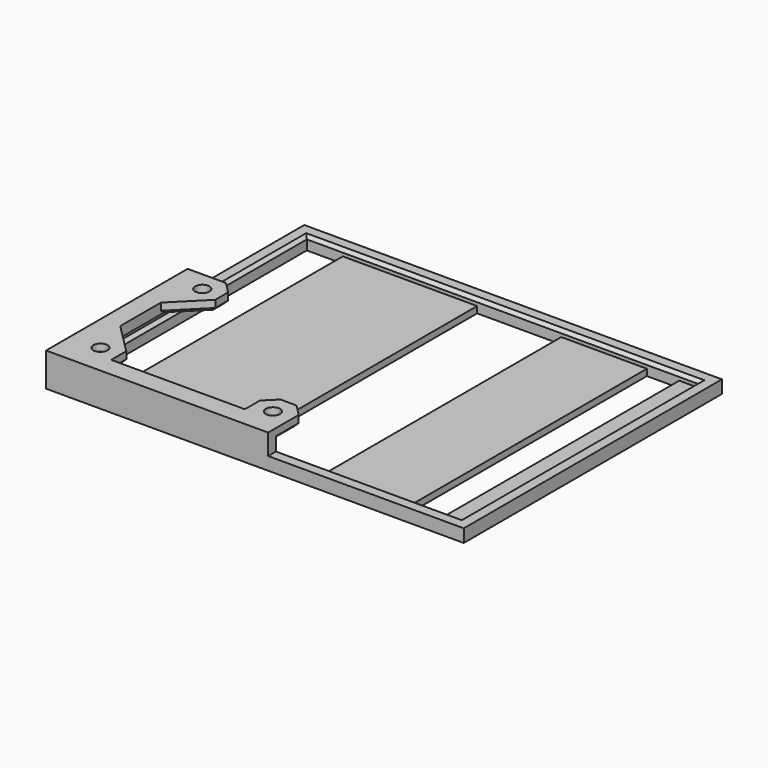
from build123d import *

# Parameters (mm, degrees)
SKETCH002_W     = 64.59
SKETCH002_H     = 49.9
SKETCH002_W_2   = 60.59
SKETCH002_H_2   = 45.9
PAD_DEPTH       = 1
PAD001_DEPTH    = 1.6
SKETCH005_R     = 1.1
PAD002_DEPTH    = 1.6
CHAMFER_SIZE    = 0.49
SKETCH_W        = 64.59
SKETCH_H        = 49.9
SKETCH_W_2      = 13
SKETCH_H_2      = 45.9
SKETCH_W_3      = 5
SKETCH_W_4      = 5.56
PAD003_DEPTH    = 1
CHAMFER001_SIZE = 0.49


with BuildPart() as part:
    # Sketch002 → Pad (new body)
    with BuildSketch(Plane.XY):
        with Locations((32.295, 24.95)):
            Rectangle(SKETCH002_W, SKETCH002_H)
        with Locations((32.295, 24.95)):
            Rectangle(SKETCH002_W_2, SKETCH002_H_2, mode=Mode.SUBTRACT)
    extrude(amount=PAD_DEPTH)

    # Sketch006 (on Face10 of Pad) → Pad001 (join)
    with BuildSketch(Plane.XY.offset(1)):
        Polygon((0, 27.36), (0, 0), (34.34, 0), (34.34, 1.5), (1.5, 1.5), (1.5, 27.36), align=None)
    extrude(amount=PAD001_DEPTH)

    # Sketch005 (on Face17 of Pad001) → Pad002 (join)
    with BuildSketch(Plane.XY.offset(2.6)):
        Polygon((0, 0), (34.34, 0), (34.34, 5.912641), (32.582641, 7.67), (30.097359, 7.67), (28.34, 5.912641), (28.34, 3), (7.67, 3), (7.67, 5.912641), (3, 10.582641), (3, 18.447359), (7.67, 23.117359), (7.67, 25.602641), (5.912641, 27.36), (0, 27.36), align=None)
        with Locations((31.34, 4.67)):
            Circle(SKETCH005_R, mode=Mode.SUBTRACT)
        with Locations((4.67, 24.36)):
            Circle(SKETCH005_R, mode=Mode.SUBTRACT)
        with Locations((4.67, 4.67)):
            Circle(SKETCH005_R, mode=Mode.SUBTRACT)
    extrude(amount=PAD002_DEPTH)

    # Chamfer
    chamfer_edges = [part.edges().sort_by_distance(p)[0] for p in [
        (2, 24.95, 1),
        (32.295, 2, 1),
        (62.59, 24.95, 1),
        (32.295, 47.9, 1),
    ]]
    chamfer(chamfer_edges, length=CHAMFER_SIZE)

    # Sketch (on Face18 of Chamfer) → Pad003 (join)
    with BuildSketch(Plane(origin=(0, 0, 0), x_dir=(1, 0, 0), z_dir=(0, 0, -1))):
        with Locations((32.295, -24.95)):
            Rectangle(SKETCH_W, SKETCH_H)
        with Locations((34.84, -24.95)):
            Rectangle(SKETCH_W_2, SKETCH_H_2, mode=Mode.SUBTRACT)
        with Locations((57.09, -24.95)):
            Rectangle(SKETCH_W_3, SKETCH_H_2, mode=Mode.SUBTRACT)
        with Locations((4.78, -24.95)):
            Rectangle(SKETCH_W_4, SKETCH_H_2, mode=Mode.SUBTRACT)
    extrude(amount=PAD003_DEPTH)

    # Chamfer001
    chamfer001_edges = [part.edges().sort_by_distance(p)[0] for p in [
        (34.34, 3.70632, 2.6),
        (33.46132, 6.79132, 2.6),
        (30.24, 4.67, 2.6),
        (31.34, 7.67, 2.6),
        (29.21868, 6.79132, 2.6),
        (28.34, 4.45632, 2.6),
        (7.67, 4.45632, 2.6),
        (5.335, 8.247641, 2.6),
        (3.70632, 27.36, 2.6),
        (6.79132, 26.48132, 2.6),
        (7.67, 24.36, 2.6),
        (5.335, 20.782359, 2.6),
        (3.57, 4.67, 2.6),
        (3.57, 24.36, 2.6),
    ]]
    chamfer(chamfer001_edges, length=CHAMFER001_SIZE)


solid = part.part
